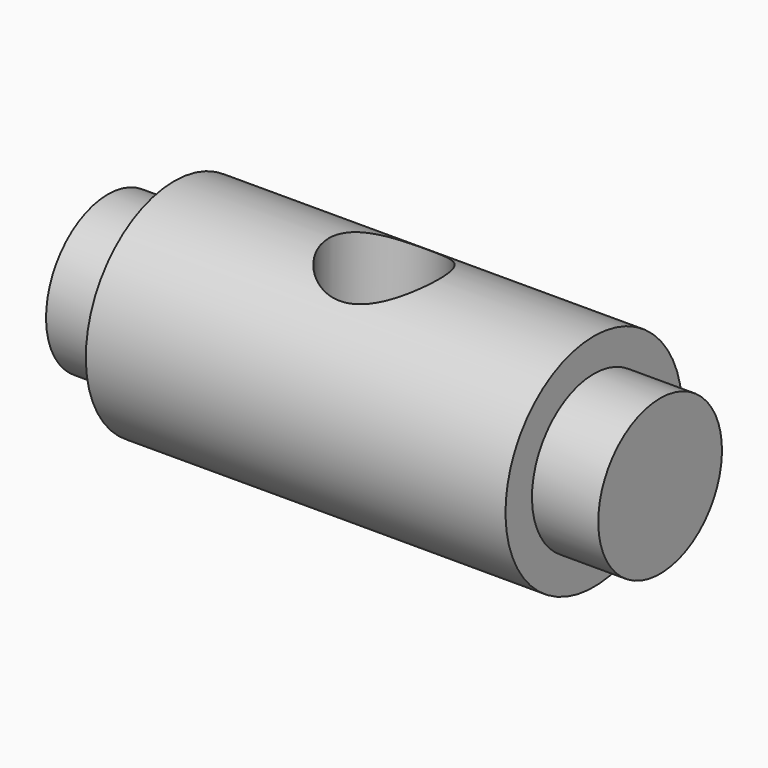
from build123d import *

# Parameters (mm, degrees)
F3_R     = 5
F4_DEPTH = 20.001


with BuildPart() as f1:
    # F0 (on Front) → F1 (revolve)
    with BuildSketch(Plane.XZ):
        Polygon((0, 7), (0, 0), (50, 0), (50, 7), (44, 7), (44, 10), (6, 10), (6, 7), align=None)
    revolve(axis=Axis((25, 0, 0), (-1, 0, 0)))

    # F3 (on offset) → F4 (cut, through all)
    with BuildSketch(Plane.XY.offset(10)):
        with Locations((25, 0)):
            Circle(F3_R)
    extrude(amount=-F4_DEPTH, mode=Mode.SUBTRACT)


solid = f1.part
